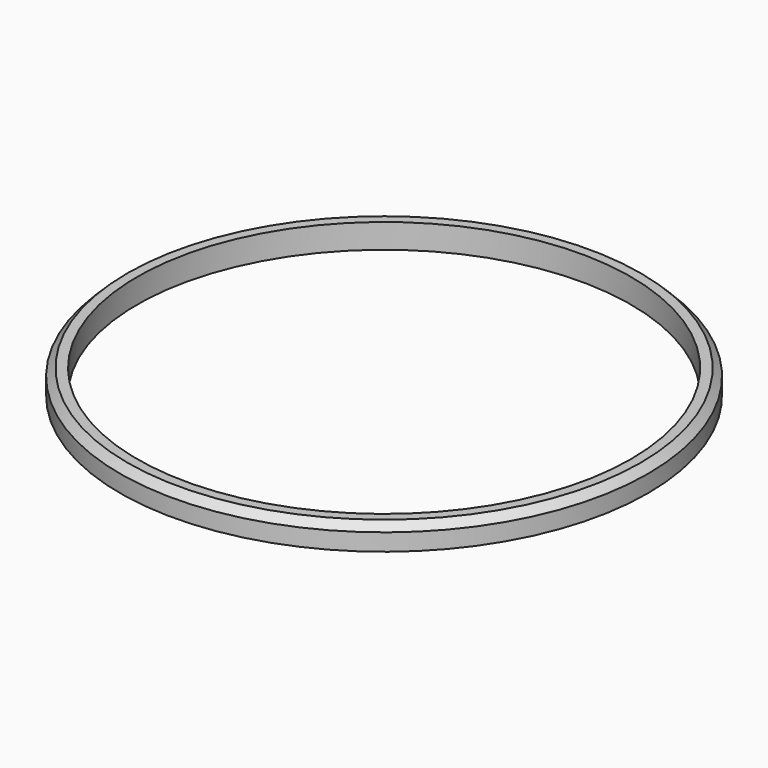
from build123d import *

# Parameters (mm, degrees)
F0_R     = 54.000001
F0_R_2   = 50.5
F1_DEPTH = 5
F2_SIZE  = 1.5


with BuildPart() as f1:
    # F0 (on Top) → F1 (new body)
    with BuildSketch(Plane.XY):
        with Locations((0, -2.530338)):
            Circle(F0_R)
        with Locations((0, -2.530338)):
            Circle(F0_R_2, mode=Mode.SUBTRACT)
    extrude(amount=F1_DEPTH)

    # F2
    f2_edges = [f1.edges().sort_by_distance(p)[0] for p in [
        (-54.000001, -2.530338, 5),
    ]]
    chamfer(f2_edges, length=F2_SIZE)


solid = f1.part
